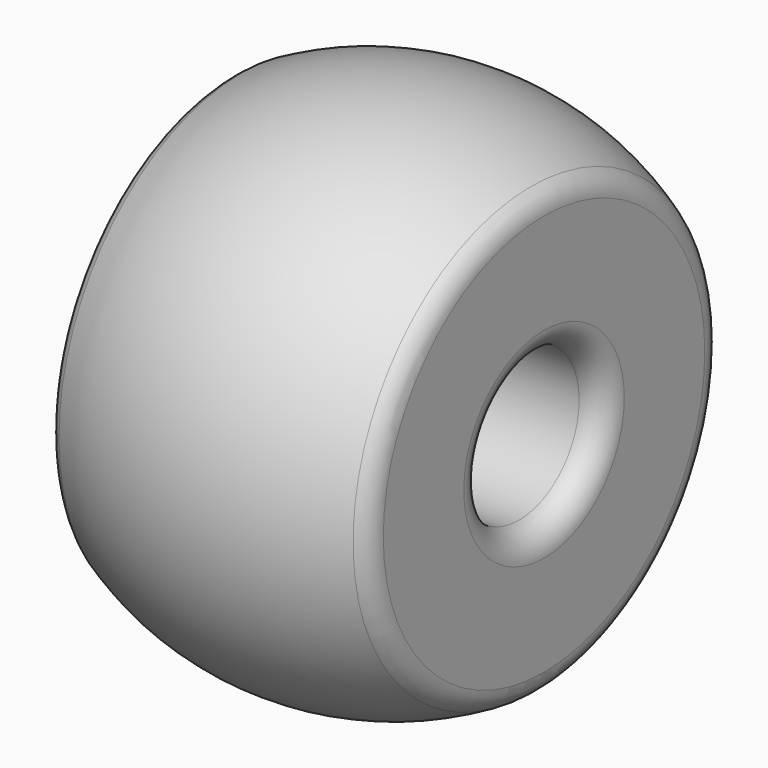
from build123d import *


with BuildPart() as f1:
    # F0 (on Top) → F1 (revolve)
    with BuildSketch(Plane.XY):
        with BuildLine():
            ThreePointArc((-5.504858, 20), (-4.040392, 16.464466), (-0.504858, 15))
            Line((-0.504858, 15), (52.495142, 15))
            ThreePointArc((52.495142, 15), (56.030676, 16.464466), (57.495142, 20))
            Line((57.495142, 20), (57.495142, 40.048986))
            ThreePointArc((57.495142, 40.048986), (56.811753, 42.572252), (54.948394, 44.405768))
            ThreePointArc((54.948394, 44.405768), (26.216545, 52.230712), (-2.791226, 45.500321))
            ThreePointArc((-2.791226, 45.500321), (-4.772869, 43.658317), (-5.504858, 41.053691))
            Line((-5.504858, 41.053691), (-5.504858, 20))
        make_face()
    revolve(axis=Axis((70.339806, 0, 0), (1, 0, 0)))


solid = f1.part
